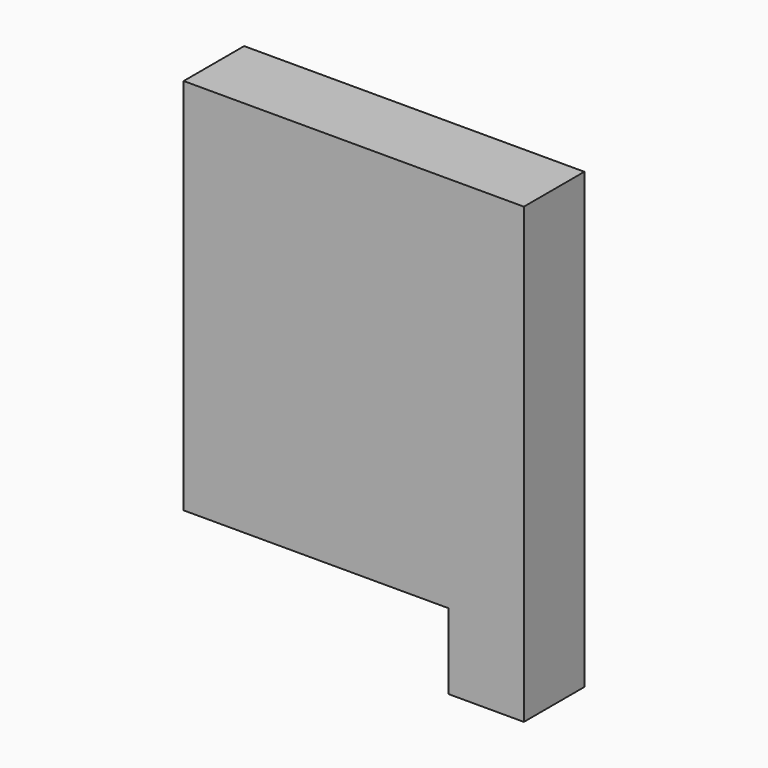
from build123d import *

# Parameters (mm, degrees)
F0_W     = 45
F0_H     = 50
F1_DEPTH = 10
F2_W     = 10
F2_H     = 10
F3_DEPTH = 10


with BuildPart() as f1:
    # F0 (on Front) → F1 (new body)
    with BuildSketch(Plane.XZ):
        Rectangle(F0_W, F0_H)
    extrude(amount=F1_DEPTH)

    # F2 (on face) → F3 (join)
    with BuildSketch(Plane(origin=(0, 0, -25), x_dir=(1, 0, 0), z_dir=(0, 0, -1))):
        with Locations((17.5, 5)):
            Rectangle(F2_W, F2_H)
    extrude(amount=F3_DEPTH)


solid = f1.part
